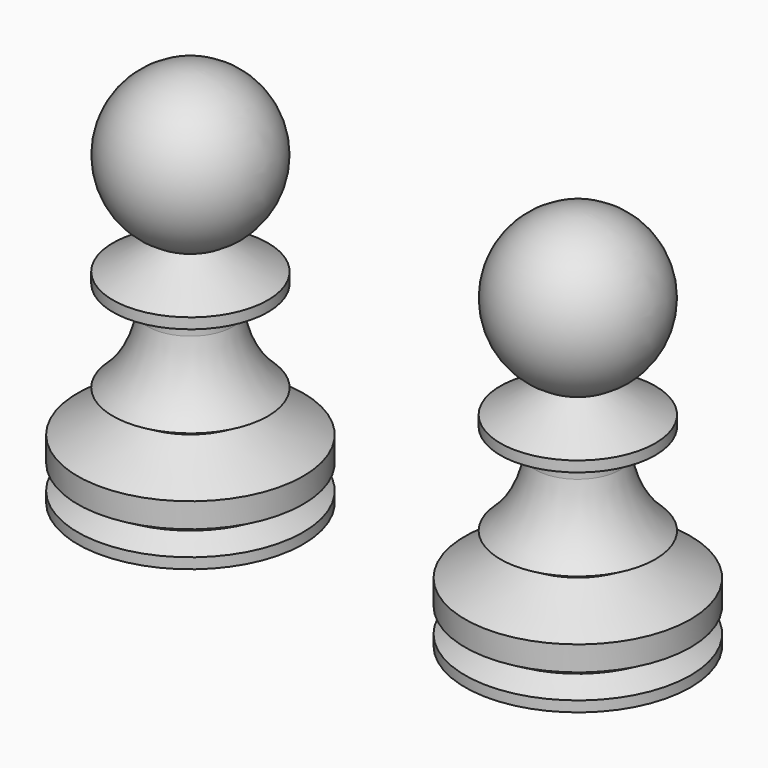
from build123d import *

# Parameters (mm, degrees)
F0_W = 16
F0_H = 3.5


with BuildPart() as f1:
    # F0 (on Front) → F1 (revolve)
    with BuildSketch(Plane.XZ):
        Polygon((0, 5), (0, 0), (16, 0), (16, 1.5), (12.968911, 3.25), (16, 5), align=None)
        with Locations((8, 6.75)):
            Rectangle(F0_W, F0_H)
        Polygon((0, 12.886751), (0, 8.5), (16, 8.5), (8.401924, 12.886751), align=None)
        Polygon((0, 14.386751), (0, 12.886751), (8.401924, 12.886751), (11, 14.386751), (6, 14.386751), align=None)
        with BuildLine():
            Line((0, 27.386751), (0, 14.386751))
            Line((0, 14.386751), (6, 14.386751))
            Line((6, 14.386751), (6, 23.925063))
            ThreePointArc((6, 23.925063), (5.899805, 25.655907), (6, 27.386751))
            Line((6, 27.386751), (0, 27.386751))
        make_face()
        with BuildLine():
            Line((6, 14.386751), (11, 14.386751))
            ThreePointArc((11, 14.386751), (7.614474, 18.691713), (6, 23.925063))
            Line((6, 23.925063), (6, 14.386751))
        make_face()
        Polygon((0, 28.886751), (0, 27.386751), (6, 27.386751), (11, 27.386751), (11, 28.886751), align=None)
        with BuildLine():
            ThreePointArc((6, 27.386751), (5.899805, 25.655907), (6, 23.925063))
            Line((6, 23.925063), (6, 27.386751))
        make_face()
        with BuildLine():
            Line((0, 54.478876), (0, 28.886751))
            Line((0, 28.886751), (11, 28.886751))
            Line((11, 28.886751), (3.680273, 33.112798))
            ThreePointArc((3.680273, 33.112798), (10.840361, 45.346111), (0, 54.478876))
        make_face()
    revolve(axis=Axis((0, 0, 27.239438), (0, 0, -1)))


with BuildPart() as f2_1:
    # F2: copy of F1
    add(f1.part)


with BuildPart() as f4_1:
    # F4: copy of F1
    add(f1.part.moved(Location((55, 0, 0))))


solid = Compound([f1.part, f4_1.part])
